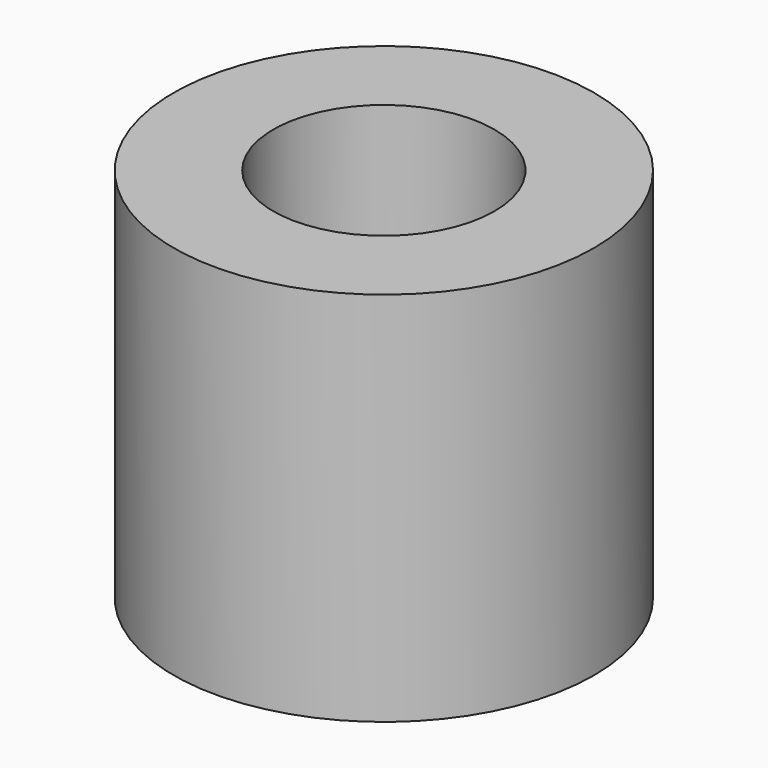
from build123d import *

# Parameters (mm, degrees)
CYLINDER095_R     = 10
CYLINDER095_DEPTH = 34
CYLINDER093_R     = 1.5
CYLINDER093_DEPTH = 14
CYLINDER090_R     = 12.5
CYLINDER090_DEPTH = 33
CYLINDER094_R     = 1.5
CYLINDER094_DEPTH = 14
CYLINDER088_R     = 14
CYLINDER088_DEPTH = 33
BOX016_W          = 1
BOX016_H          = 1
BOX016_DEPTH      = 1
CYLINDER084_R     = 17
CYLINDER084_DEPTH = 5
CYLINDER_R        = 19
CYLINDER_DEPTH    = 34


with BuildPart() as cylinder001:
    # Cylinder095 → Cylinder095 (new body)
    with BuildSketch(Plane.XY.offset(-33)):
        Circle(CYLINDER095_R)
    extrude(amount=CYLINDER095_DEPTH)


with BuildPart() as obj1:
    # Cylinder093 → Cylinder093 (new body)
    with BuildSketch(Plane(origin=(53.66, 148, -15), x_dir=(1, 0, 0), z_dir=(0, 0, 1))):
        Circle(CYLINDER093_R)
    extrude(amount=CYLINDER093_DEPTH)


with BuildPart() as obj2:
    # Cylinder090 → Cylinder090 (new body)
    with BuildSketch(Plane(origin=(73.66, 148, -10), x_dir=(1, 0, 0), z_dir=(0, 0, 1))):
        Circle(CYLINDER090_R)
    extrude(amount=CYLINDER090_DEPTH)


with BuildPart() as fusion039:
    # Cylinder094 → Cylinder094 (new body)
    with BuildSketch(Plane(origin=(93.66, 148, -14), x_dir=(1, 0, 0), z_dir=(0, 0, 1))):
        Circle(CYLINDER094_R)
    extrude(amount=CYLINDER094_DEPTH)

    # Fusion039: union obj1, obj2
    add(obj1.part)
    add(obj2.part)


with BuildPart() as obj3:
    # Cylinder088 → Cylinder088 (new body)
    with BuildSketch(Plane(origin=(73.66, 148, -10), x_dir=(1, 0, 0), z_dir=(0, 0, 1))):
        Circle(CYLINDER088_R)
    extrude(amount=CYLINDER088_DEPTH)


with BuildPart() as obj4:
    # Box016 → Box016 (new body)
    with BuildSketch(Plane(origin=(63, 136, -8), x_dir=(1, 0, 0), z_dir=(0, 0, 1))):
        with Locations((0.5, 0.5)):
            Rectangle(BOX016_W, BOX016_H)
    extrude(amount=BOX016_DEPTH)


with BuildPart() as obj5:
    # Cylinder084 → Cylinder084 (new body)
    with BuildSketch(Plane(origin=(73.66, 148, -10), x_dir=(1, 0, 0), z_dir=(0, 0, 1))):
        Circle(CYLINDER084_R)
    extrude(amount=CYLINDER084_DEPTH)

    # Fusion038: union obj3, obj4
    add(obj3.part)
    add(obj4.part)

    # Cut010: cut Fusion039
    add(fusion039.part, mode=Mode.SUBTRACT)


with BuildPart() as obj5_1:
    # Cut010 placement: moved
    add(obj5.part.moved(Location((-73.66, -148, -23))))


with BuildPart() as cut011:
    # Cylinder → Cylinder (new body)
    with BuildSketch(Plane.XY.offset(-33)):
        Circle(CYLINDER_R)
    extrude(amount=CYLINDER_DEPTH)

    # Cut: cut obj5
    add(obj5_1.part, mode=Mode.SUBTRACT)

    # Cut011: cut Cylinder001
    add(cylinder001.part, mode=Mode.SUBTRACT)


solid = cut011.part
